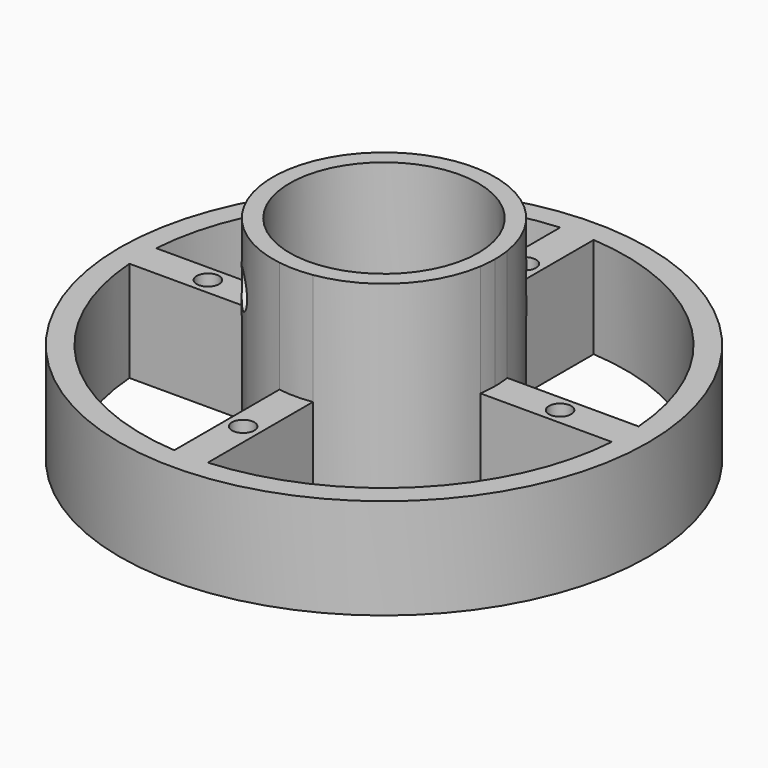
from build123d import *

# Parameters (mm, degrees)
F0_R     = 47.25
F0_R_2   = 2
F1_DEPTH = 18
F2_R     = 16.875
F3_DEPTH = 20
F7_R     = 3.25
F8_DEPTH = 25
F9_DEPTH = 25


with BuildPart() as f1:
    # F0 (on Top) → F1 (new body)
    with BuildSketch(Plane.XY):
        Circle(F0_R)
        with BuildLine():
            ThreePointArc((3, 43.1458283036), (30.5823682863, 30.5823682863), (43.1458283036, 3))
            ThreePointArc((43.1458283036, 3), (43.2239492303, 1.5009040394), (43.25, 0))
            ThreePointArc((43.25, 0), (43.2239492303, -1.5009040394), (43.1458283036, -3))
            ThreePointArc((43.1458283036, -3), (30.5823682863, -30.5823682863), (3, -43.1458283036))
            ThreePointArc((3, -43.1458283036), (0, -43.25), (-3, -43.1458283036))
            ThreePointArc((-3, -43.1458283036), (-30.5823682863, -30.5823682863), (-43.1458283036, -3))
            ThreePointArc((-43.1458283036, -3), (-43.25, 0), (-43.1458283036, 3))
            ThreePointArc((-43.1458283036, 3), (-30.5823682863, 30.5823682863), (-3, 43.1458283036))
            ThreePointArc((-3, 43.1458283036), (0, 43.25), (3, 43.1458283036))
        make_face(mode=Mode.SUBTRACT)
        with BuildLine():
            Line((43.1458283036, 3), (19.6472803461, 3))
            ThreePointArc((19.6472803461, 3), (19.8179883172, 1.5043151466), (19.875, 0))
            ThreePointArc((19.875, 0), (19.8179883172, -1.5043151466), (19.6472803461, -3))
            Line((19.6472803461, -3), (43.1458283036, -3))
            ThreePointArc((43.1458283036, -3), (43.2239492303, -1.5009040394), (43.25, 0))
            ThreePointArc((43.25, 0), (43.2239492303, 1.5009040394), (43.1458283036, 3))
        make_face()
        with Locations((31.5, 0)):
            Circle(F0_R_2, mode=Mode.SUBTRACT)
        with BuildLine():
            ThreePointArc((-19.6472803461, -3), (-19.875, 0), (-19.6472803461, 3))
            Line((-19.6472803461, 3), (-43.1458283036, 3))
            ThreePointArc((-43.1458283036, 3), (-43.25, 0), (-43.1458283036, -3))
            Line((-43.1458283036, -3), (-19.6472803461, -3))
        make_face()
        with Locations((-31.5, 0)):
            Circle(F0_R_2, mode=Mode.SUBTRACT)
        with BuildLine():
            ThreePointArc((-3, 19.6472803461), (0, 19.875), (3, 19.6472803461))
            Line((3, 19.6472803461), (3, 43.1458283036))
            ThreePointArc((3, 43.1458283036), (0, 43.25), (-3, 43.1458283036))
            Line((-3, 43.1458283036), (-3, 19.6472803461))
        make_face()
        with Locations((0, 31.5)):
            Circle(F0_R_2, mode=Mode.SUBTRACT)
        with BuildLine():
            Line((3, -43.1458283036), (3, -19.6472803461))
            ThreePointArc((3, -19.6472803461), (0, -19.875), (-3, -19.6472803461))
            Line((-3, -19.6472803461), (-3, -43.1458283036))
            ThreePointArc((-3, -43.1458283036), (0, -43.25), (3, -43.1458283036))
        make_face()
        with Locations((0, -31.5)):
            Circle(F0_R_2, mode=Mode.SUBTRACT)
        with BuildLine():
            Line((-3, -19.6472803461), (-3, -16.6061923691))
            ThreePointArc((-3, -16.6061923691), (-11.9324269325, -11.9324269325), (-16.6061923691, -3))
            Line((-16.6061923691, -3), (-19.6472803461, -3))
            ThreePointArc((-19.6472803461, -3), (-14.0537472761, -14.0537472761), (-3, -19.6472803461))
        make_face()
        with BuildLine():
            Line((19.6472803461, -3), (16.6061923691, -3))
            ThreePointArc((16.6061923691, -3), (11.9324269325, -11.9324269325), (3, -16.6061923691))
            Line((3, -16.6061923691), (3, -19.6472803461))
            ThreePointArc((3, -19.6472803461), (14.0537472761, -14.0537472761), (19.6472803461, -3))
        make_face()
        with BuildLine():
            ThreePointArc((3, 16.6061923691), (11.9324269325, 11.9324269325), (16.6061923691, 3))
            Line((16.6061923691, 3), (19.6472803461, 3))
            ThreePointArc((19.6472803461, 3), (14.0537472761, 14.0537472761), (3, 19.6472803461))
            Line((3, 19.6472803461), (3, 16.6061923691))
        make_face()
        with BuildLine():
            ThreePointArc((-16.6061923691, 3), (-11.9324269325, 11.9324269325), (-3, 16.6061923691))
            Line((-3, 16.6061923691), (-3, 19.6472803461))
            ThreePointArc((-3, 19.6472803461), (-14.0537472761, 14.0537472761), (-19.6472803461, 3))
            Line((-19.6472803461, 3), (-16.6061923691, 3))
        make_face()
        with BuildLine():
            ThreePointArc((-3, 16.6061923691), (0, 16.875), (3, 16.6061923691))
            Line((3, 16.6061923691), (3, 19.6472803461))
            ThreePointArc((3, 19.6472803461), (0, 19.875), (-3, 19.6472803461))
            Line((-3, 19.6472803461), (-3, 16.6061923691))
        make_face()
        with BuildLine():
            ThreePointArc((16.6061923691, 3), (16.8076637465, 1.5060094241), (16.875, 0))
            ThreePointArc((16.875, 0), (16.8076637465, -1.5060094241), (16.6061923691, -3))
            Line((16.6061923691, -3), (19.6472803461, -3))
            ThreePointArc((19.6472803461, -3), (19.8179883172, -1.5043151466), (19.875, 0))
            ThreePointArc((19.875, 0), (19.8179883172, 1.5043151466), (19.6472803461, 3))
            Line((19.6472803461, 3), (16.6061923691, 3))
        make_face()
        with BuildLine():
            ThreePointArc((-16.6061923691, -3), (-16.875, 0), (-16.6061923691, 3))
            Line((-16.6061923691, 3), (-19.6472803461, 3))
            ThreePointArc((-19.6472803461, 3), (-19.875, 0), (-19.6472803461, -3))
            Line((-19.6472803461, -3), (-16.6061923691, -3))
        make_face()
        with BuildLine():
            Line((3, -19.6472803461), (3, -16.6061923691))
            ThreePointArc((3, -16.6061923691), (0, -16.875), (-3, -16.6061923691))
            Line((-3, -16.6061923691), (-3, -19.6472803461))
            ThreePointArc((-3, -19.6472803461), (0, -19.875), (3, -19.6472803461))
        make_face()
    extrude(amount=F1_DEPTH)

    # F2 (on face) → F3 (join)
    with BuildSketch(Plane.XY.offset(18)):
        with BuildLine():
            ThreePointArc((19.6472803461, -3), (19.8179883172, -1.5043151466), (19.875, 0))
            ThreePointArc((19.875, 0), (19.8179883172, 1.5043151466), (19.6472803461, 3))
            ThreePointArc((19.6472803461, 3), (14.0537472761, 14.0537472761), (3, 19.6472803461))
            ThreePointArc((3, 19.6472803461), (0, 19.875), (-3, 19.6472803461))
            ThreePointArc((-3, 19.6472803461), (-14.0537472761, 14.0537472761), (-19.6472803461, 3))
            ThreePointArc((-19.6472803461, 3), (-19.875, 0), (-19.6472803461, -3))
            ThreePointArc((-19.6472803461, -3), (-14.0537472761, -14.0537472761), (-3, -19.6472803461))
            ThreePointArc((-3, -19.6472803461), (0, -19.875), (3, -19.6472803461))
            ThreePointArc((3, -19.6472803461), (14.0537472761, -14.0537472761), (19.6472803461, -3))
        make_face()
        Circle(F2_R, mode=Mode.SUBTRACT)
    extrude(amount=F3_DEPTH)

    # F7 (on line) → F8 (cut)
    with BuildSketch(Plane(origin=(0, 0, 0), x_dir=(-0.7071067812, 0.7071067812, 0), z_dir=(0.7071067812, 0.7071067812, 0))):
        with Locations((0, 28)):
            Circle(F7_R)
    extrude(amount=-F8_DEPTH, mode=Mode.SUBTRACT)

    # F7 (on line) → F9 (cut)
    with BuildSketch(Plane(origin=(0, 0, 0), x_dir=(-0.7071067812, 0.7071067812, 0), z_dir=(0.7071067812, 0.7071067812, 0))):
        with Locations((0, 28)):
            Circle(F7_R)
    extrude(amount=F9_DEPTH, mode=Mode.SUBTRACT)


solid = f1.part
